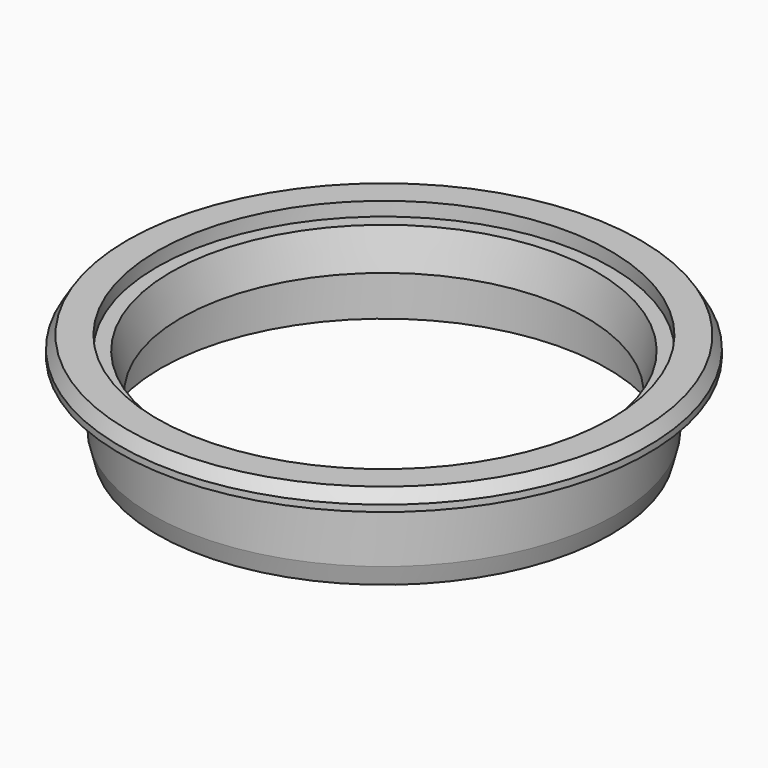
from build123d import *

# Parameters (mm, degrees)
F2_SIZE2 = 1.3
F2_SIZE  = 0.8
F3_R     = 1.4
F4_SIZE2 = 0.5
F4_SIZE  = 2
F5_R     = 0.5


with BuildPart() as f1:
    # F0 (on Front) → F1 (revolve)
    with BuildSketch(Plane.XZ):
        Polygon((-24.5, 0), (-28.5, 0), (-28.5, -2), (-25, -2), (-25, -11), (-24.1, -11), (-24.1, -4), (-23.226406, -4), (-22.813906, -5.5), (-21.9, -5.5), (-23, -1.5), (-24.5, -1.5), align=None)
    revolve(axis=Axis((0, 0, 1.068981), (0, 0, -1)))

    # F2
    f2_edges = [f1.edges().sort_by_distance(p)[0] for p in [
        (28.5, 0, 0),
    ]]
    chamfer(f2_edges, length=F2_SIZE, length2=F2_SIZE2)

    # F3
    f3_edges = [f1.edges().sort_by_distance(p)[0] for p in [
        (25, 0, -2),
    ]]
    fillet(f3_edges, radius=F3_R)

    # F4
    f4_edges = [f1.edges().sort_by_distance(p)[0] for p in [
        (25, 0, -11),
    ]]
    chamfer(f4_edges, length=F4_SIZE, length2=F4_SIZE2)

    # F5
    f5_edges = [f1.edges().sort_by_distance(p)[0] for p in [
        (23.226406, 0, -4),
    ]]
    fillet(f5_edges, radius=F5_R)


solid = f1.part
